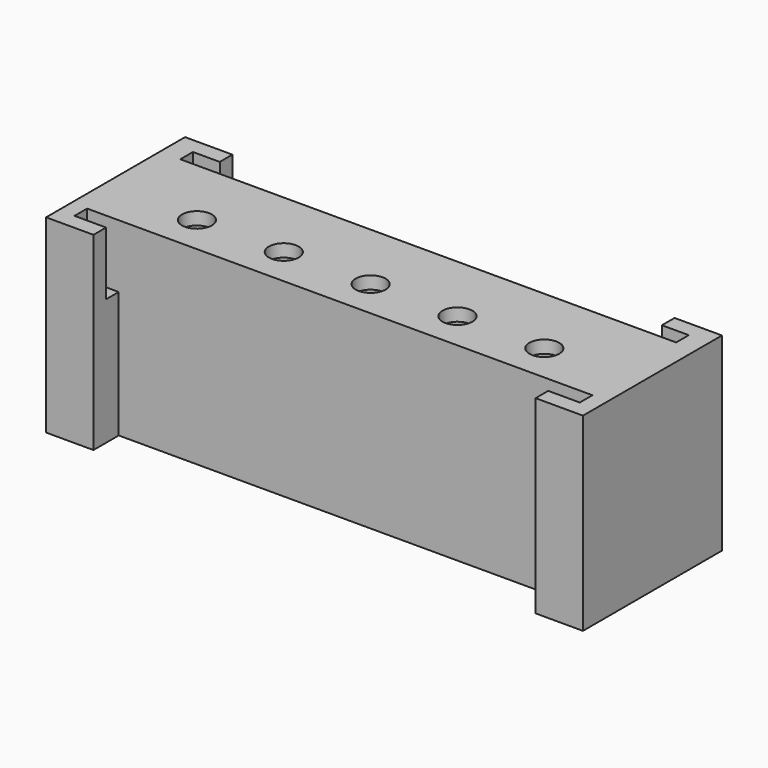
from build123d import *

# Parameters (mm, degrees)
F0_W      = 215.9
F0_H      = 44.45
F1_DEPTH  = 76.2
F2_T      = -5.08
F3_W      = 6.35
F3_H      = 76.2
F5_DEPTH  = 12.7
F4_W      = 6.35
F4_H      = 76.2
F6_DEPTH  = 12.7
F8_W      = 6.35
F8_H      = 50.8
F9_DEPTH  = 12.7
F10_W     = 6.35
F10_H     = 50.8
F11_DEPTH = 12.7
F12_W     = 6.35
F12_H     = 50.8
F13_DEPTH = 12.7
F14_W     = 6.35
F14_H     = 50.8
F15_DEPTH = 12.7
F16_W     = 152.4
F16_H     = 46.080392
F17_DEPTH = 5.08
F7_R      = 6
F18_DEPTH = 5.08
F20_W     = 1.905
F20_H     = 6.35
F19_W     = 1.905
F19_H     = 6.35
F21_DEPTH = 25.4


with BuildPart() as f1:
    # F0 (on Top) → F1 (new body)
    with BuildSketch(Plane.XY):
        with Locations((-2.774038, 0)):
            Rectangle(F0_W, F0_H)
    extrude(amount=F1_DEPTH)

    # F2
    f2_openings = [f1.faces().sort_by_distance(p)[0] for p in [
        (-2.774038, 0, 0),
    ]]
    offset(amount=F2_T, openings=f2_openings)

    # F3 (on face) → F5 (join)
    with BuildSketch(Plane.XZ.offset(22.225)):
        with Locations((-107.549038, 38.1)):
            Rectangle(F3_W, F3_H)
        with Locations((102.000962, 38.1)):
            Rectangle(F3_W, F3_H)
    extrude(amount=F5_DEPTH)

    # F4 (on face) → F6 (join)
    with BuildSketch(Plane(origin=(0, 22.225, 0), x_dir=(-1, 0, 0), z_dir=(0, 1, 0))):
        with Locations((-102.000962, 38.1)):
            Rectangle(F4_W, F4_H)
        with Locations((107.549038, 38.1)):
            Rectangle(F4_W, F4_H)
    extrude(amount=F6_DEPTH)

    # F8 (on face) → F9 (join)
    with BuildSketch(Plane.YZ.offset(-104.374038)):
        Polygon((-28.575, 76.2), (-34.925, 76.2), (-34.925, 0), (-28.575, 0), (-28.575, 50.8), align=None)
        with Locations((-25.4, 25.4)):
            Rectangle(F8_W, F8_H)
    extrude(amount=F9_DEPTH)

    # F10 (on face) → F11 (join)
    with BuildSketch(Plane(origin=(98.825962, 0, 0), x_dir=(0, -1, 0), z_dir=(-1, 0, 0))):
        Polygon((34.925, 0), (34.925, 76.2), (28.575, 76.2), (28.575, 50.8), (28.575, 0), align=None)
        with Locations((25.4, 25.4)):
            Rectangle(F10_W, F10_H)
    extrude(amount=F11_DEPTH)

    # F12 (on face) → F13 (join)
    with BuildSketch(Plane(origin=(98.825962, 0, 0), x_dir=(0, -1, 0), z_dir=(-1, 0, 0))):
        Polygon((-34.925, 76.2), (-34.925, 0), (-28.575, 0), (-28.575, 50.8), (-28.575, 76.2), align=None)
        with Locations((-25.4, 25.4)):
            Rectangle(F12_W, F12_H)
    extrude(amount=F13_DEPTH)

    # F14 (on face) → F15 (join)
    with BuildSketch(Plane.YZ.offset(-104.374038)):
        Polygon((34.925, 0), (34.925, 76.2), (28.575, 76.2), (28.575, 50.8), (28.575, 0), align=None)
        with Locations((25.4, 25.4)):
            Rectangle(F14_W, F14_H)
    extrude(amount=F15_DEPTH)

    # F16 (on face) → F17 (cut)
    with BuildSketch(Plane(origin=(0, 22.225, 0), x_dir=(-1, 0, 0), z_dir=(0, 1, 0))):
        with Locations((2.774038, 23.040196)):
            Rectangle(F16_W, F16_H)
    extrude(amount=-F17_DEPTH, mode=Mode.SUBTRACT)

    # F7 (on face) → F18 (cut)
    with BuildSketch(Plane.XY.offset(76.2)):
        with Locations((67.075962, -6.731)):
            Circle(F7_R)
        with Locations((32.150962, -6.731)):
            Circle(F7_R)
        with Locations((-2.774038, -6.731)):
            Circle(F7_R)
        with Locations((-37.699038, -6.731)):
            Circle(F7_R)
        with Locations((-72.624038, -6.731)):
            Circle(F7_R)
    extrude(amount=-F18_DEPTH, mode=Mode.SUBTRACT)

    # F20 (on face) + F19 (on face) → F21 (join)
    with BuildSketch(Plane.XY.offset(50.8)):
        with Locations((-103.421538, 25.4)):
            Rectangle(F20_W, F20_H)
    with BuildSketch(Plane.XY.offset(50.8)):
        with Locations((97.873462, 25.4)):
            Rectangle(F19_W, F19_H)
    extrude(amount=F21_DEPTH)


solid = f1.part
